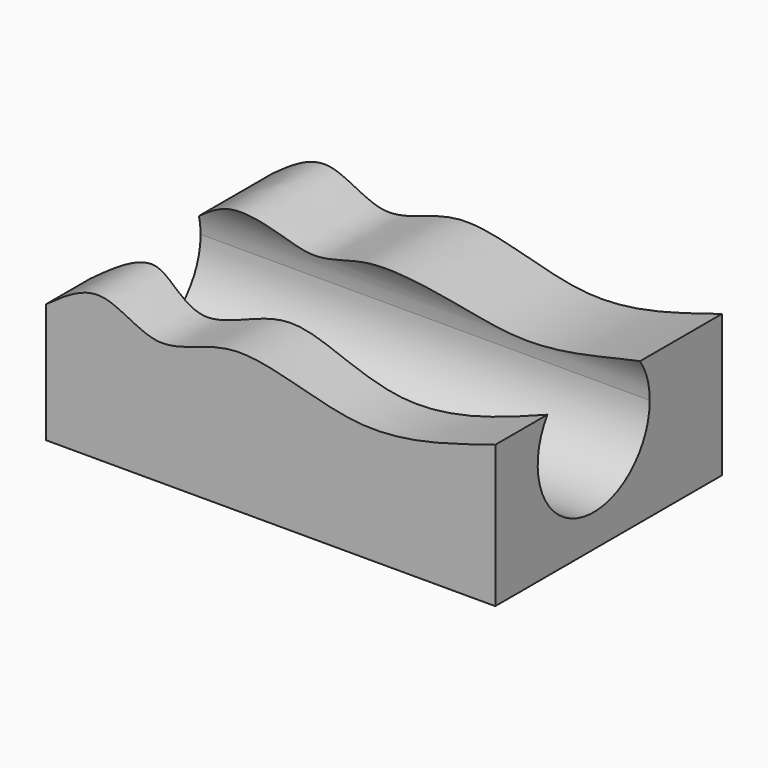
from build123d import *

# Parameters (mm, degrees)
F0_W     = 71.8196127564
F0_H     = 45.3016031533
F1_DEPTH = 25
F3_DEPTH = 71.8206127564
F5_DEPTH = 45.3026031533


with BuildPart() as f1:
    # F0 (on Top) → F1 (new body)
    with BuildSketch(Plane.XY):
        with Locations((-4.787969403, 0.9207585827)):
            Rectangle(F0_W, F0_H)
    extrude(amount=F1_DEPTH)

    # F2 (on face) → F3 (cut, through all)
    with BuildSketch(Plane.YZ.offset(31.1218369752)):
        with BuildLine():
            ThreePointArc((-9.2483829324, 25), (-6.7836719894, 6.2698377231), (9.1495755455, 16.419980675))
            ThreePointArc((9.1495755455, 16.419980675), (8.1000626152, 21.1535723277), (5.1482222591, 25))
            Line((5.1482222591, 25), (-9.2483829324, 25))
        make_face()
    extrude(amount=-F3_DEPTH, mode=Mode.SUBTRACT)

    # F4 (on face) → F5 (cut, through all)
    with BuildSketch(Plane.XZ.offset(21.730042994)):
        with BuildLine():
            Line((-40.6977757812, 25), (-40.6977757812, 19.1547963768))
            add(Edge.make_bspline(
                [(-40.6977757812, 19.1547963768), (-37.7597455886, 21.2769441588), (-31.8768521894, 25.5279400785), (-22.6143195247, 17.0043045257), (-10.3150227377, 25.519319585), (9.8065595969, 15.6580017037), (23.9148476866, 20.4993176259), (31.1218369752, 22.7205809206)],
                knots=[0, 0, 0, 0, 0.1640011889, 0.3282036418, 0.5137050928, 0.7521804987, 1, 1, 1, 1], degree=3))
            Line((31.1218369752, 22.7205809206), (31.1218369752, 25))
            Line((31.1218369752, 25), (-40.6977757812, 25))
        make_face()
    extrude(amount=-F5_DEPTH, mode=Mode.SUBTRACT)


solid = f1.part
